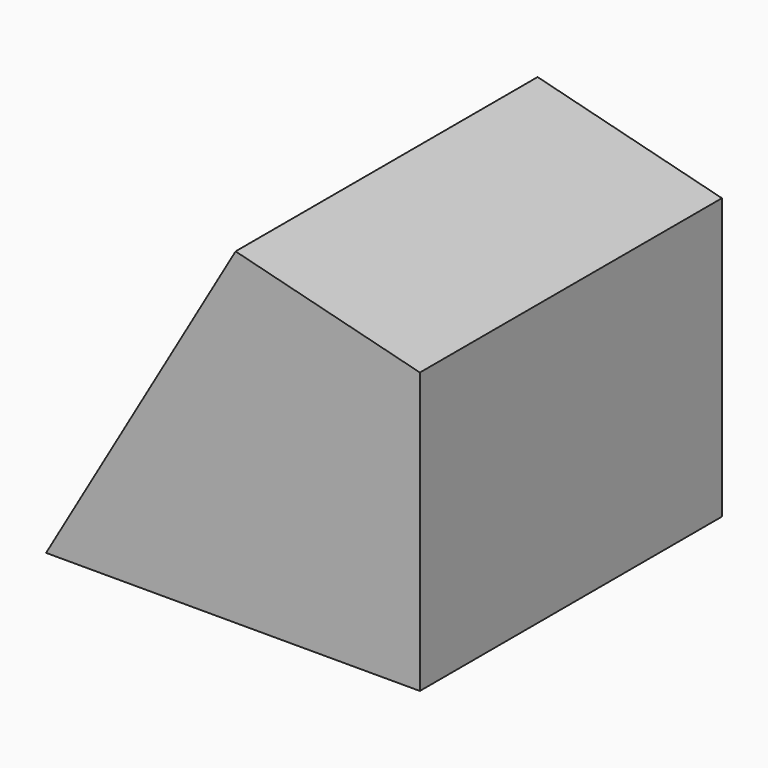
from build123d import *

# Parameters (mm, degrees)
F1_DEPTH = 50.8
F3_DEPTH = 0.508


with BuildPart() as f1:
    # F0 (on Front) → F1 (new body)
    with BuildSketch(Plane.XZ):
        with BuildLine():
            Line((-102.0248893347, -35.3197461325), (-0.4248893347, -35.3197461325))
            Line((-0.4248893347, -35.3197461325), (-0.4248893347, 40.8802538675))
            Line((-0.4248893347, 40.8802538675), (-50.520752065, 53.5802538675))
            add(Edge.make_bspline(
                [(-50.520752065, 53.5802538675), (-39.943752681, 49.0703022182), (-18.6005809549, 39.9697370167), (-3.6092402382, 1.501755601), (-29.0871667847, -31.6910251415), (-74.7872181103, -33.964646112), (-102.0248893347, -35.3197461325)],
                knots=[0, 0, 0, 0, 0.2233728272, 0.4507407477, 0.6726361897, 1, 1, 1, 1], degree=3))
        make_face()
    extrude(amount=F1_DEPTH)

    # F2 (on face) → F3 (join)
    with BuildSketch(Plane.XZ.offset(50.8)):
        Polygon((-0.4248893347, 40.8802538675), (-50.520752065, 53.5802538675), (-102.0248893347, -35.3197461325), (-0.4248893347, -35.3197461325), align=None)
    extrude(amount=F3_DEPTH)

    # F4: F1 across plane


with BuildPart() as f1_1:
    add(f1.part)
    add(f1.part.mirror(Plane.XZ))


solid = f1_1.part
